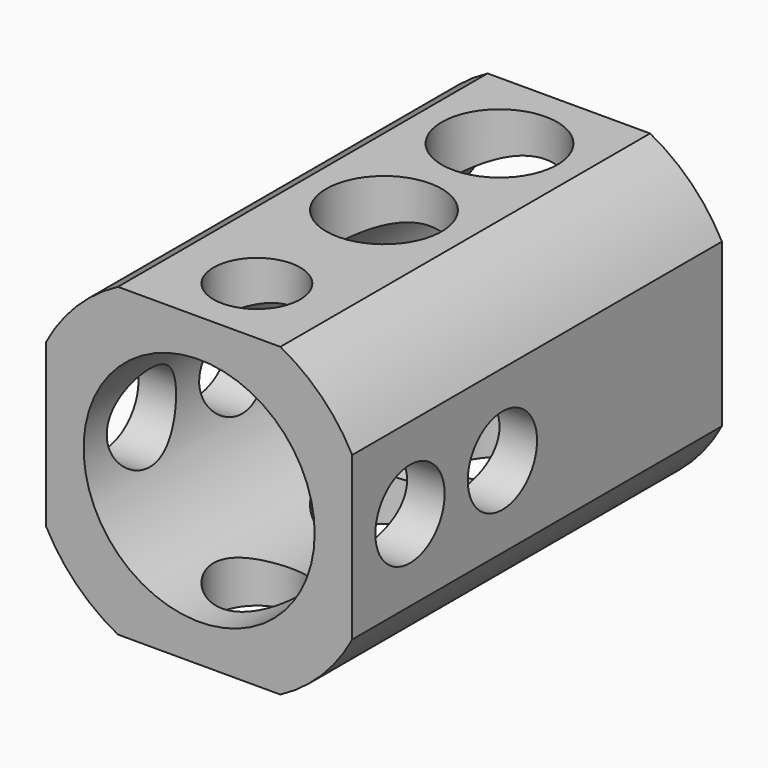
from build123d import *

# Parameters (mm, degrees)
F0_R     = 12.7
F1_DEPTH = 25.4
F4_D     = 12.7
F5_D     = 9.525
F6_D     = 9.525


with BuildPart() as f1:
    # F0 (on Front) → F1 (new body, symmetric)
    with BuildSketch(Plane.XZ):
        with BuildLine():
            Line((8.929599, 16.8275), (-8.929599, 16.8275))
            ThreePointArc((-8.929599, 16.8275), (-13.470384, 13.470384), (-16.8275, 8.929599))
            Line((-16.8275, 8.929599), (-16.8275, -8.929599))
            ThreePointArc((-16.8275, -8.929599), (-13.470384, -13.470384), (-8.929599, -16.8275))
            Line((-8.929599, -16.8275), (8.929599, -16.8275))
            ThreePointArc((8.929599, -16.8275), (13.470384, -13.470384), (16.8275, -8.929599))
            Line((16.8275, -8.929599), (16.8275, 8.929599))
            ThreePointArc((16.8275, 8.929599), (13.470384, 13.470384), (8.929599, 16.8275))
        make_face()
        Circle(F0_R, mode=Mode.SUBTRACT)
    extrude(amount=F1_DEPTH, both=True)

    # F4 (through all)
    with Locations(Plane.XY.offset(16.8275)):
        with Locations((0, 15.875), (0, 0)):
            Hole(F4_D / 2)

    # F5 (through all)
    with Locations(Plane.XY.offset(16.8275)):
        with Locations((0, -17.4625)):
            Hole(F5_D / 2)

    # F6 (through all)
    with Locations(Plane.YZ.offset(16.8275)):
        with Locations((-4.7625, 0), (-17.4625, 0)):
            Hole(F6_D / 2)


solid = f1.part
